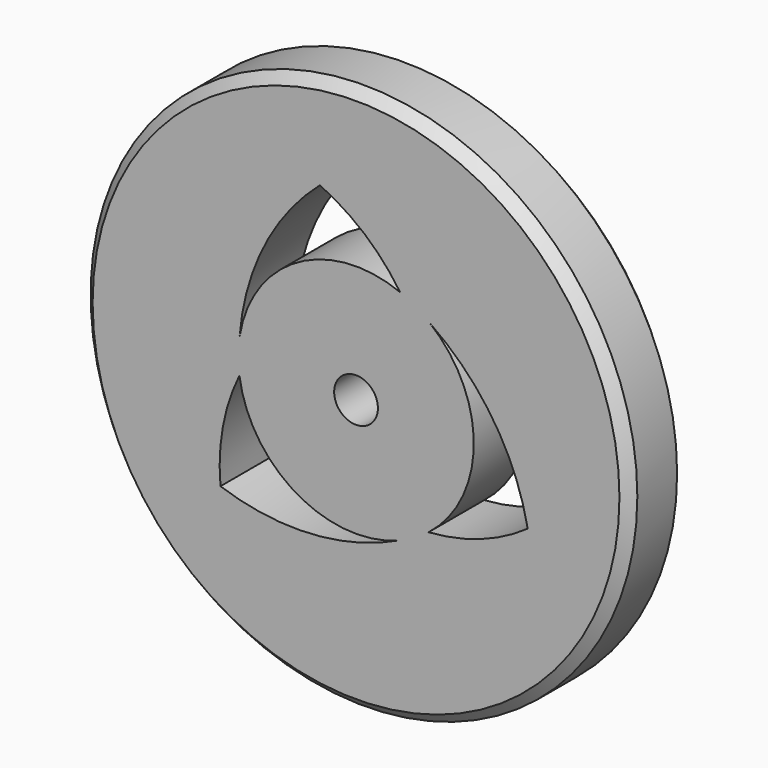
from build123d import *

# Parameters (mm, degrees)
F0_R     = 3.4925
F0_R_2   = 0.2794
F1_DEPTH = 0.889
F2_SIZE  = 0.127


with BuildPart() as f1:
    # F0 (on Front) → F1 (new body)
    with BuildSketch(Plane.XZ):
        Circle(F0_R)
        with BuildLine():
            ThreePointArc((0.541666, -1.403826), (-0.582476, -1.692408), (-1.732036, -1.532768))
            ThreePointArc((-1.732036, -1.532768), (-1.70195, -0.854412), (-1.490076, -0.209291))
            ThreePointArc((-1.490076, -0.209291), (-0.762626, -1.297124), (0.541666, -1.403826))
        make_face(mode=Mode.SUBTRACT)
        Circle(F0_R_2, mode=Mode.SUBTRACT)
        with BuildLine():
            ThreePointArc((0.944916, 1.17101), (1.756906, 0.341765), (2.193434, -0.733604))
            ThreePointArc((2.193434, -0.733604), (1.590918, -1.046726), (0.92629, -1.185799))
            ThreePointArc((0.92629, -1.185799), (1.504656, -0.011892), (0.944916, 1.17101))
        make_face(mode=Mode.SUBTRACT)
        with BuildLine():
            ThreePointArc((-0.461398, 2.266371), (0.111032, 1.901138), (0.563787, 1.39509))
            ThreePointArc((0.563787, 1.39509), (-0.742029, 1.309016), (-1.486582, 0.232816))
            ThreePointArc((-1.486582, 0.232816), (-1.17443, 1.350643), (-0.461398, 2.266371))
        make_face(mode=Mode.SUBTRACT)
    extrude(amount=F1_DEPTH)

    # F2
    f2_edges = [f1.edges().sort_by_distance(p)[0] for p in [
        (-3.4925, -0.889, 0),
        (-3.4925, 0, 0),
    ]]
    chamfer(f2_edges, length=F2_SIZE)


solid = f1.part
